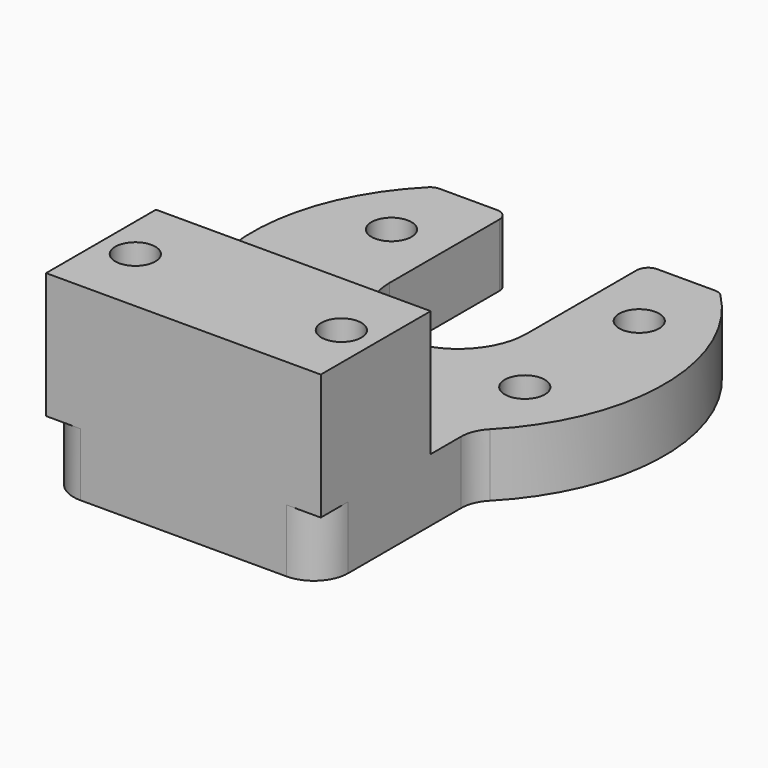
from build123d import *

# Parameters (mm, degrees)
F0_R     = 1.75
F2_DEPTH = 5.5
F1_R     = 1.75
F3_DEPTH = 5.5
F4_R     = 3
F5_W     = 24
F5_H     = 12
F5_R     = 1.75
F6_DEPTH = 11


with BuildPart() as f2:
    # F0 (on Top) → F2 (new body)
    with BuildSketch(Plane.XY):
        with BuildLine():
            ThreePointArc((-12.0415945788, 13), (-12.4250770732, 12.9235481452), (-12.7499236717, 12.7058823529))
            ThreePointArc((-12.7499236717, 12.7058823529), (0, -18), (12.7499236717, 12.7058823529))
            ThreePointArc((12.7499236717, 12.7058823529), (12.4250770732, 12.9235481452), (12.0415945788, 13))
            Line((12.0415945788, 13), (7, 13))
            ThreePointArc((7, 13), (6.2928932188, 12.7071067812), (6, 12))
            Line((6, 12), (6, 0))
            ThreePointArc((6, 0), (0, -6), (-6, 0))
            Line((-6, 0), (-6, 12))
            ThreePointArc((-6, 12), (-6.2928932188, 12.7071067812), (-7, 13))
            Line((-7, 13), (-12.0415945788, 13))
        make_face()
        with Locations((-10.8253175473, -6.25)):
            Circle(F0_R, mode=Mode.SUBTRACT)
        with Locations((0, -12.5)):
            Circle(F0_R, mode=Mode.SUBTRACT)
        with Locations((10.8253175473, -6.25)):
            Circle(F0_R, mode=Mode.SUBTRACT)
        with Locations((-10.8253175473, 6.25)):
            Circle(F0_R, mode=Mode.SUBTRACT)
        with Locations((10.8253175473, 6.25)):
            Circle(F0_R, mode=Mode.SUBTRACT)
    extrude(amount=F2_DEPTH)

    # F1 (on Top) → F3 (join)
    with BuildSketch(Plane.XY):
        Polygon((12, -18), (0, -18), (-12, -18), (-12, -30), (12, -30), align=None)
        with Locations((-9, -24)):
            Circle(F1_R, mode=Mode.SUBTRACT)
        with Locations((9, -24)):
            Circle(F1_R, mode=Mode.SUBTRACT)
        with BuildLine():
            ThreePointArc((12, -13.416407865), (6.4227976159, -16.8151024613), (0, -18))
            Line((0, -18), (12, -18))
            Line((12, -18), (12, -13.416407865))
        make_face()
        with BuildLine():
            ThreePointArc((0, -18), (-6.4227976159, -16.8151024613), (-12, -13.416407865))
            Line((-12, -13.416407865), (-12, -18))
            Line((-12, -18), (0, -18))
        make_face()
    extrude(amount=F3_DEPTH)

    # F4
    f4_edges = [f2.edges().sort_by_distance(p)[0] for p in [
        (-12, -13.416408, 2.75),
        (-12, -30, 2.75),
        (12, -13.416408, 2.75),
        (12, -30, 2.75),
    ]]
    fillet(f4_edges, radius=F4_R)

    # F5 (on face) → F6 (join)
    with BuildSketch(Plane.XY.offset(5.5)):
        with Locations((0, -24)):
            Rectangle(F5_W, F5_H)
        with Locations((-9, -24)):
            Circle(F5_R, mode=Mode.SUBTRACT)
        with Locations((9, -24)):
            Circle(F5_R, mode=Mode.SUBTRACT)
    extrude(amount=F6_DEPTH)


solid = f2.part
